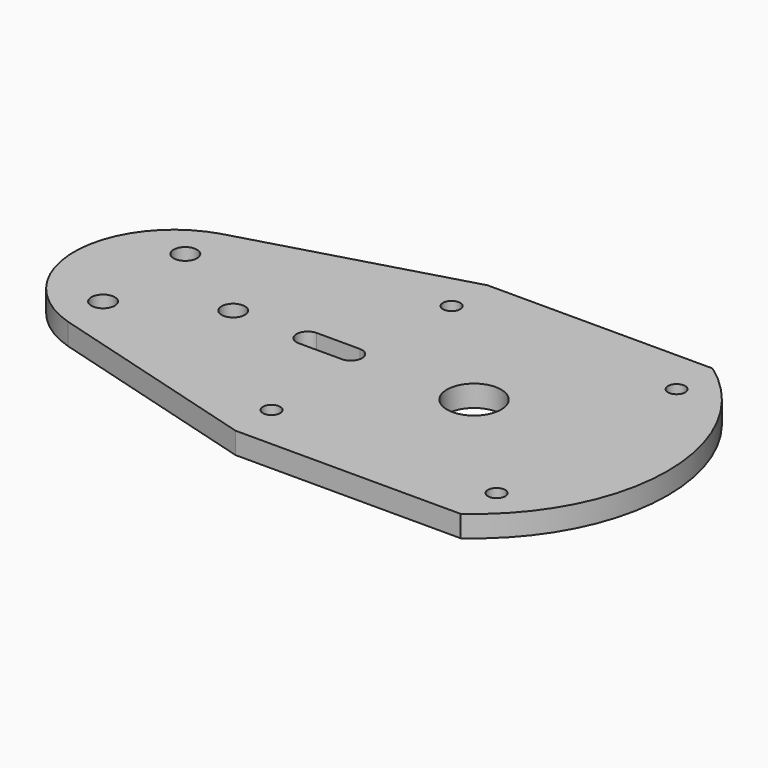
from build123d import *

# Parameters (mm, degrees)
F0_R     = 2.5527
F0_R_2   = 3.4544
F0_R_3   = 8.001
F1_DEPTH = 6.35


with BuildPart() as f1:
    # F0 (on Top) → F1 (new body)
    with BuildSketch(Plane.XY):
        with BuildLine():
            Line((92.408948, 46.498306), (25.955052, 46.498306))
            Line((25.955052, 46.498306), (-38.227, 28.130715))
            ThreePointArc((-38.227, 28.130715), (-58.928, 0), (-38.227, -28.130715))
            Line((-38.227, -28.130715), (25.955052, -46.498306))
            Line((25.955052, -46.498306), (92.408948, -46.498306))
            ThreePointArc((92.408948, -46.498306), (116.332, 0), (92.408948, 46.498306))
        make_face()
        with Locations((25.955052, -33.226948)):
            Circle(F0_R, mode=Mode.SUBTRACT)
        with Locations((-38.227, -15.177961)):
            Circle(F0_R_2, mode=Mode.SUBTRACT)
        with Locations((92.408948, -33.226948)):
            Circle(F0_R, mode=Mode.SUBTRACT)
        with Locations((-38.227, 15.177961)):
            Circle(F0_R_2, mode=Mode.SUBTRACT)
        with Locations((-11.938, 0)):
            Circle(F0_R_2, mode=Mode.SUBTRACT)
        with BuildLine():
            ThreePointArc((22.800605, 3.302), (26.102605, 0), (22.800605, -3.302))
            Line((22.800605, -3.302), (10.060125, -3.302))
            ThreePointArc((10.060125, -3.302), (6.758125, 0), (10.060125, 3.302))
            Line((10.060125, 3.302), (22.800605, 3.302))
        make_face(mode=Mode.SUBTRACT)
        with Locations((25.955052, 33.226948)):
            Circle(F0_R, mode=Mode.SUBTRACT)
        with Locations((59.182, 0)):
            Circle(F0_R_3, mode=Mode.SUBTRACT)
        with Locations((92.408948, 33.226948)):
            Circle(F0_R, mode=Mode.SUBTRACT)
    extrude(amount=-F1_DEPTH)


solid = f1.part
